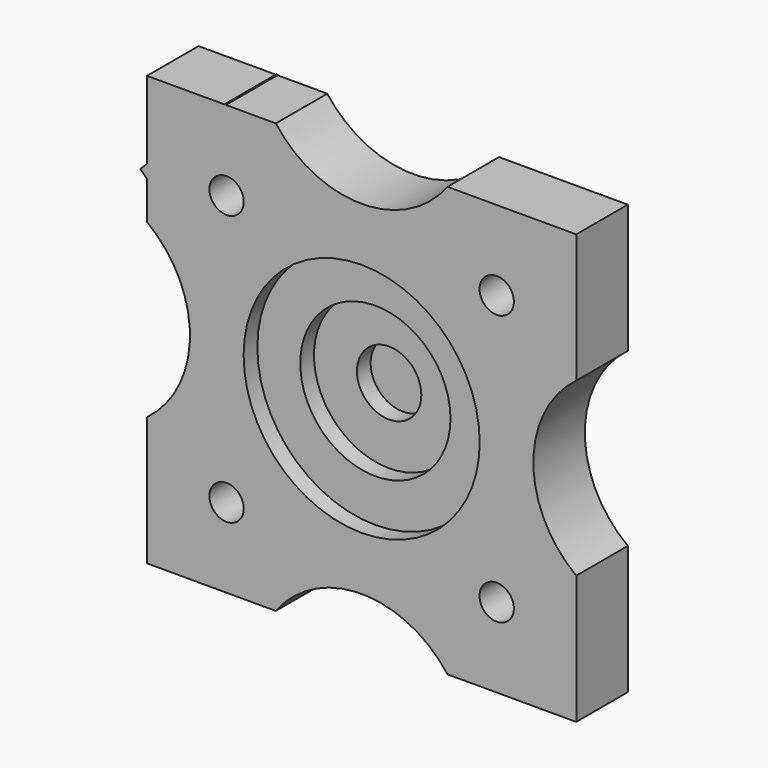
from build123d import *

# Parameters (mm, degrees)
F0_R     = 4
F0_R_2   = 27.5
F1_DEPTH = 15
F0_R_3   = 17.5
F2_DEPTH = 11
F0_R_4   = 7.5
F3_DEPTH = 7
F4_DEPTH = 3
F5_DEPTH = 5


with BuildPart() as f1:
    # F0 (on Front) → F1 (new body)
    with BuildSketch(Plane.XZ):
        Polygon((-31.9668788359, 50), (-50, 50), (-50, 31.9668788358), align=None)
        Polygon((-31.9668788359, 50), (-50, 31.9668788358), (-50, 28.79981719), (-35.7023821371, 14.5021993271), (-15.9033922639, 34.3011892003), (-31.6022030636, 50), align=None)
        with Locations((-31.4662517628, 31.4662517628)):
            Circle(F0_R, mode=Mode.SUBTRACT)
        Polygon((-50, 28.79981719), (-50, 31.9668788358), (-51.5835308229, 30.3833480129), align=None)
        Polygon((-31.7845409497, 50.1823378861), (-31.9668788359, 50), (-31.6022030636, 50), align=None)
        with BuildLine():
            Line((-35.7023821371, 14.5021993271), (-50, 28.79981719))
            Line((-50, 28.79981719), (-50, 20))
            ThreePointArc((-50, 20), (-40, 0), (-50, -20))
            Line((-50, -20), (-50, -50))
            Line((-50, -50), (-20, -50))
            ThreePointArc((-20, -50), (0, -40), (20, -50))
            Line((20, -50), (50, -50))
            Line((50, -50), (50, -20))
            ThreePointArc((50, -20), (40, 0), (50, 20))
            Line((50, 20), (50, 50))
            Line((50, 50), (20, 50))
            ThreePointArc((20, 50), (0, 40), (-20, 50))
            Line((-20, 50), (-31.6022030636, 50))
            Line((-31.6022030636, 50), (-15.9033922639, 34.3011892003))
            Line((-15.9033922639, 34.3011892003), (-35.7023821371, 14.5021993271))
        make_face()
        with Locations((-31.4662517628, -31.4662517628)):
            Circle(F0_R, mode=Mode.SUBTRACT)
        with Locations((31.4662517628, -31.4662517628)):
            Circle(F0_R, mode=Mode.SUBTRACT)
        Circle(F0_R_2, mode=Mode.SUBTRACT)
        with Locations((31.4662517628, 31.4662517628)):
            Circle(F0_R, mode=Mode.SUBTRACT)
    extrude(amount=F1_DEPTH)

    # F0 (on Front) → F5 (join)
    with BuildSketch(Plane.XZ):
        with Locations((-31.4662517628, 31.4662517628)):
            Circle(F0_R)
        with Locations((31.4662517628, 31.4662517628)):
            Circle(F0_R)
        with Locations((31.4662517628, -31.4662517628)):
            Circle(F0_R)
        with Locations((-31.4662517628, -31.4662517628)):
            Circle(F0_R)
    extrude(amount=F5_DEPTH)


with BuildPart() as f2:
    # F0 (on Front) → F2 (new body)
    with BuildSketch(Plane.XZ):
        Circle(F0_R_2)
        Circle(F0_R_3, mode=Mode.SUBTRACT)
    extrude(amount=F2_DEPTH)


with BuildPart() as f3:
    # F0 (on Front) → F3 (new body)
    with BuildSketch(Plane.XZ):
        Circle(F0_R_3)
        Circle(F0_R_4, mode=Mode.SUBTRACT)
    extrude(amount=F3_DEPTH)


with BuildPart() as f4:
    # F0 (on Front) → F4 (new body)
    with BuildSketch(Plane.XZ):
        Circle(F0_R_4)
    extrude(amount=F4_DEPTH)


solid = Compound([f1.part, f2.part, f3.part, f4.part])
